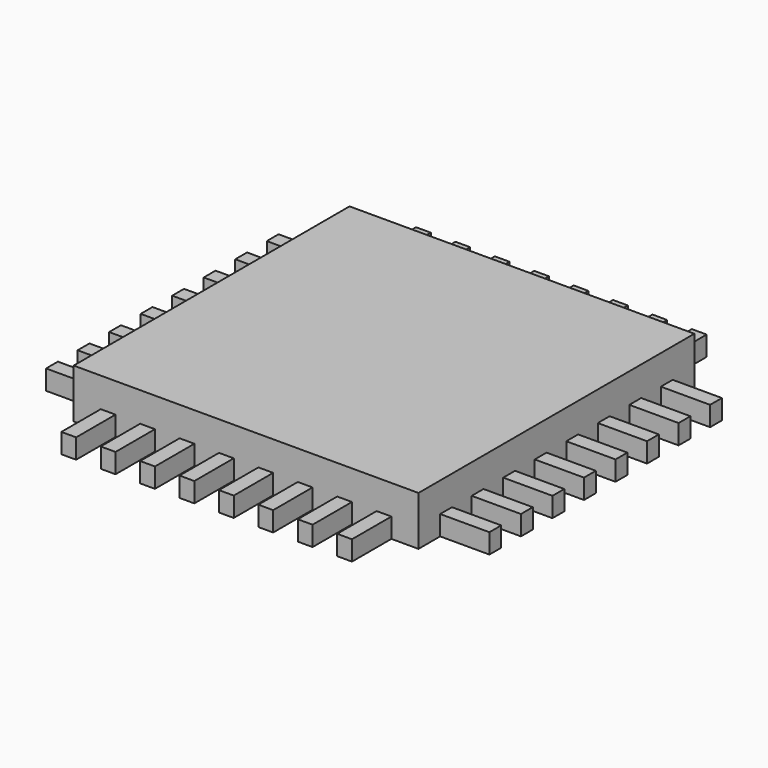
from build123d import *

# Parameters (mm, degrees)
F0_W     = 7
F0_H     = 7
F1_DEPTH = 1
F2_W     = 1
F2_H     = 0.3
F3_DEPTH = 0.4
F5_COUNT = 4
F5_ANGLE = 270


with BuildPart() as f1:
    # F0 (on Top) → F1 (new body)
    with BuildSketch(Plane.XY):
        Rectangle(F0_W, F0_H)
    extrude(amount=F1_DEPTH)

    # F2 (on Top) → F3 (join)
    with BuildSketch(Plane.XY):
        with Locations((-4, 2.8)):
            Rectangle(F2_W, F2_H)
        with Locations((-4, 2)):
            Rectangle(F2_W, F2_H)
        with Locations((-4, 1.2)):
            Rectangle(F2_W, F2_H)
        with Locations((-4, -1.2)):
            Rectangle(F2_W, F2_H)
        with Locations((-4, 0.4)):
            Rectangle(F2_W, F2_H)
        with Locations((-4, -0.4)):
            Rectangle(F2_W, F2_H)
        with Locations((-4, -2)):
            Rectangle(F2_W, F2_H)
        with Locations((-4, -2.8)):
            Rectangle(F2_W, F2_H)
    extrude(amount=F3_DEPTH)

    # F5: F1 ×4 about axis
    f5_axis = Axis((0, 0, 4.798143), (0, 0, 1))


with BuildPart() as f1_1:
    add(f1.part)
    for i in range(1, F5_COUNT):
        add(f1.part.rotate(f5_axis, i * F5_ANGLE / (F5_COUNT - 1)))


solid = f1_1.part
